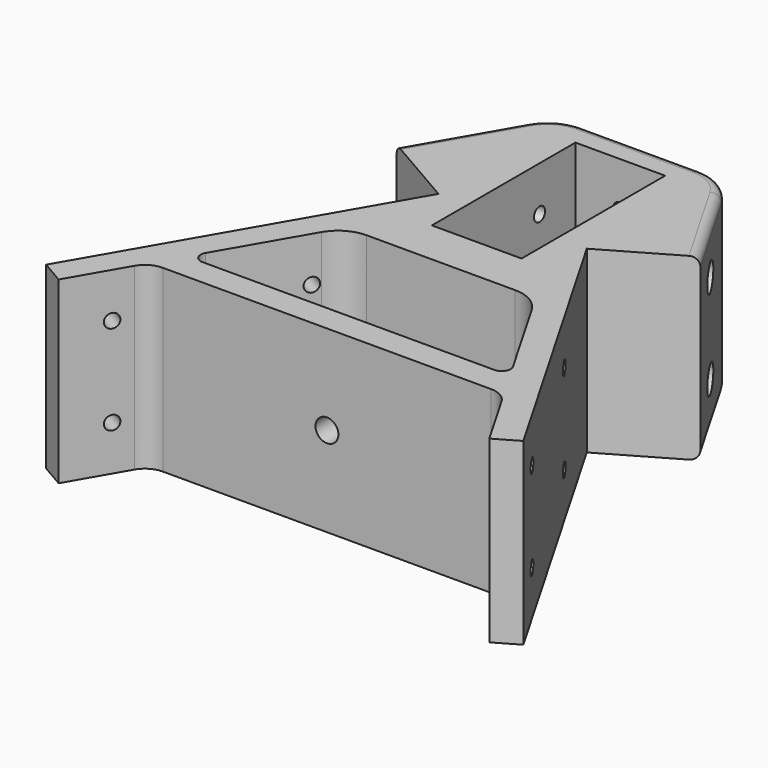
from build123d import *

# Parameters (mm, degrees)
SKETCH006_W          = 20
SKETCH006_H          = 40
PAD001_DEPTH         = 40
SKETCH007_R          = 1.55
POCKET005_DEPTH      = 6
SKETCH008_R          = 1.55
POCKET006_DEPTH      = 6
SKETCH009_R          = 1.55
POCKET007_DEPTH      = 8
SKETCH010_R          = 2.55
POCKET008_DEPTH      = 20
SKETCH011_R          = 2.55
POCKET009_DEPTH      = 14
POCKET010_DEPTH      = 5.5
SKETCH016_R          = 1.55
POCKET014_DEPTH      = 53.206
POCKET014_DEPTH_BACK = 53.206
SKETCH017_R          = 3
POCKET015_DEPTH      = 31.206
SKETCH018_R          = 3
POCKET016_DEPTH      = 31.206
FILLET001_R          = 2


with BuildPart() as part:
    # Sketch006 → Pad001 (new body)
    with BuildSketch(Plane.XY):
        with BuildLine():
            Line((-53.205, 0), (-16.535, 63.5143031136))
            Line((-16.535, 63.5143031136), (-33.8555080757, 73.5143031136))
            Line((-33.8555080757, 73.5143031136), (-21.7278633238, 94.52))
            ThreePointArc((-13.0676092859, 99.52), (-18.0676092859, 98.1802540378), (-21.7278633238, 94.52))
            Line((-13.0676092859, 99.52), (13.0676092859, 99.52))
            ThreePointArc((21.7278633238, 94.52), (18.0676092859, 98.1802540378), (13.0676092859, 99.52))
            Line((33.8555080757, 73.5143031136), (21.7278633238, 94.52))
            Line((16.535, 63.5143031136), (33.8555080757, 73.5143031136))
            Line((53.205, 0), (16.535, 63.5143031136))
            Line((53.205, 0), (48.0088475773, -3))
            Line((48.0088475773, -3), (40.9247597743, 9.27))
            ThreePointArc((40.9247597743, 9.27), (39.0946327554, 11.1001270189), (36.5946327554, 11.77))
            Line((-36.5946327554, 11.77), (36.5946327554, 11.77))
            ThreePointArc((-36.5946327554, 11.77), (-39.0946327554, 11.1001270189), (-40.9247597743, 9.27))
            Line((-48.0088475773, -3), (-40.9247597743, 9.27))
            Line((-53.205, 0), (-48.0088475773, -3))
        make_face()
        with Locations((0, 73.52)):
            Rectangle(SKETCH006_W, SKETCH006_H, mode=Mode.SUBTRACT)
        with BuildLine():
            Line((-23.4599141314, 39.52), (-34.2852316787, 20.77))
            ThreePointArc((-34.2852316787, 20.77), (-34.2852316787, 18.77), (-32.5531808711, 17.77))
            Line((-32.5531808711, 17.77), (32.5531808711, 17.77))
            ThreePointArc((32.5531808711, 17.77), (34.2852316787, 18.77), (34.2852316787, 20.77))
            Line((34.2852316787, 20.77), (23.4599141314, 39.52))
            ThreePointArc((23.4599141314, 39.52), (20.5317109011, 42.4482032303), (16.5317109011, 43.52))
            Line((16.5317109011, 43.52), (-16.5317109011, 43.52))
            ThreePointArc((-16.5317109011, 43.52), (-20.5317109011, 42.4482032303), (-23.4599141314, 39.52))
        make_face(mode=Mode.SUBTRACT)
    extrude(amount=PAD001_DEPTH)

    # Sketch007 (on DatumPlane) → Pocket005 (cut, symmetric)
    with BuildSketch(Plane(origin=(53, 0, 0), x_dir=(-0.5, 0.8660254038, 0), z_dir=(0.8660254038, 0.5, 0))):
        with Locations((47.2375, 30)):
            Circle(SKETCH007_R)
        with Locations((9.8975, 30)):
            Circle(SKETCH007_R)
        with Locations((47.2375, 10)):
            Circle(SKETCH007_R)
        with Locations((9.8975, 10)):
            Circle(SKETCH007_R)
    extrude(amount=POCKET005_DEPTH, both=True, mode=Mode.SUBTRACT)

    # Sketch008 (on DatumPlane) → Pocket006 (cut, symmetric)
    with BuildSketch(Plane(origin=(-53, 0, 0), x_dir=(0.5, 0.8660254038, 0), z_dir=(0.8660254038, -0.5, 0))):
        with Locations((47.2375, 30)):
            Circle(SKETCH008_R)
        with Locations((47.2375, 10)):
            Circle(SKETCH008_R)
        with Locations((9.8975, 10)):
            Circle(SKETCH008_R)
        with Locations((9.8975, 30)):
            Circle(SKETCH008_R)
    extrude(amount=POCKET006_DEPTH, both=True, mode=Mode.SUBTRACT)

    # Sketch009 → Pocket007 (cut)
    with BuildSketch(Plane(origin=(0, 99.52, 0), x_dir=(-1, 0, 0), z_dir=(0, 1, 0))):
        with Locations((0, 30)):
            Circle(SKETCH009_R)
        with Locations((0, 10)):
            Circle(SKETCH009_R)
    extrude(amount=-POCKET007_DEPTH, mode=Mode.SUBTRACT)

    # Sketch010 → Pocket008 (cut)
    with BuildSketch(Plane.XZ):
        with Locations((0, 20)):
            Circle(SKETCH010_R)
    extrude(amount=-POCKET008_DEPTH, mode=Mode.SUBTRACT)

    # Sketch011 → Pocket009 (cut)
    with BuildSketch(Plane.XZ.offset(-53.52)):
        with Locations((0, 20)):
            Circle(SKETCH011_R)
    extrude(amount=POCKET009_DEPTH, mode=Mode.SUBTRACT)

    # Sketch012 → Pocket010 (cut)
    with BuildSketch(Plane.XZ.offset(-53.52)):
        Polygon((4.1, 17.6328638963), (4.1, 22.3671361037), (0, 24.7342722074), (-4.1, 22.3671361037), (-4.1, 17.6328638963), (0, 15.2657277926), align=None)
    extrude(amount=POCKET010_DEPTH, mode=Mode.SUBTRACT)

    # Sketch016 → Pocket014 (cut, two sides)
    with BuildSketch(Plane.YZ) as pocket014_sk:
        with Locations((83.52, 30)):
            Circle(SKETCH016_R)
        with Locations((83.52, 10)):
            Circle(SKETCH016_R)
    extrude(amount=-POCKET014_DEPTH, mode=Mode.SUBTRACT)
    extrude(pocket014_sk.sketch, amount=POCKET014_DEPTH_BACK, mode=Mode.SUBTRACT)

    # Sketch017 → Pocket015 (cut, through all)
    with BuildSketch(Plane.YZ.offset(22)):
        with Locations((83.52, 30)):
            Circle(SKETCH017_R)
        with Locations((83.52, 10)):
            Circle(SKETCH017_R)
    extrude(amount=POCKET015_DEPTH, mode=Mode.SUBTRACT)

    # Sketch018 → Pocket016 (cut, through all)
    with BuildSketch(Plane.YZ.offset(-22)):
        with Locations((83.52, 30)):
            Circle(SKETCH018_R)
        with Locations((83.52, 10)):
            Circle(SKETCH018_R)
    extrude(amount=-POCKET016_DEPTH, mode=Mode.SUBTRACT)

    # Fillet001
    fillet001_edges = [part.edges().sort_by_distance(p)[0] for p in [
        (27.791686, 84.017152, 40),
        (18.067609, 98.180254, 40),
        (0, 99.52, 40),
        (-18.067609, 98.180254, 40),
        (-27.791686, 84.017152, 40),
        (27.791686, 84.017152, 0),
        (18.067609, 98.180254, 0),
        (0, 99.52, 0),
        (-18.067609, 98.180254, 0),
        (-27.791686, 84.017152, 0),
    ]]
    fillet(fillet001_edges, radius=FILLET001_R)


solid = part.part
